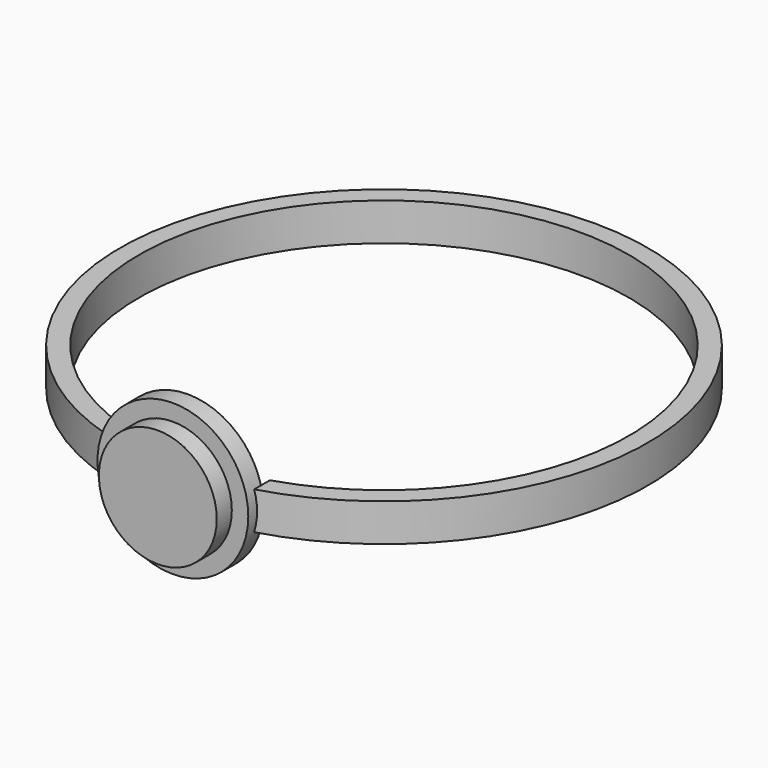
from build123d import *

# Parameters (mm, degrees)
F0_R     = 35.56
F0_R_2   = 33.02
F1_DEPTH = 2.54
F2_DEPTH = 2.54
F3_R     = 10.16
F4_DEPTH = 35.56
F5_DEPTH = 33.02
F6_R     = 7.94208
F7_DEPTH = 2.54


with BuildPart() as f1:
    # F0 (on Top) → F1 (new body)
    with BuildSketch(Plane.XY):
        Circle(F0_R)
        Circle(F0_R_2, mode=Mode.SUBTRACT)
    extrude(amount=F1_DEPTH)

    # F0 (on Top) → F2 (join)
    with BuildSketch(Plane.XY):
        Circle(F0_R)
        Circle(F0_R_2, mode=Mode.SUBTRACT)
    extrude(amount=-F2_DEPTH)

    # F3 (on Front) → F4 (join)
    with BuildSketch(Plane.XZ):
        Circle(F3_R)
    extrude(amount=F4_DEPTH)

    # F3 (on Front) → F5 (cut)
    with BuildSketch(Plane.XZ):
        Circle(F3_R)
    extrude(amount=F5_DEPTH, mode=Mode.SUBTRACT)

    # F6 (on face) → F7 (join)
    with BuildSketch(Plane.XZ.offset(35.56)):
        Circle(F6_R)
    extrude(amount=F7_DEPTH)


solid = f1.part
